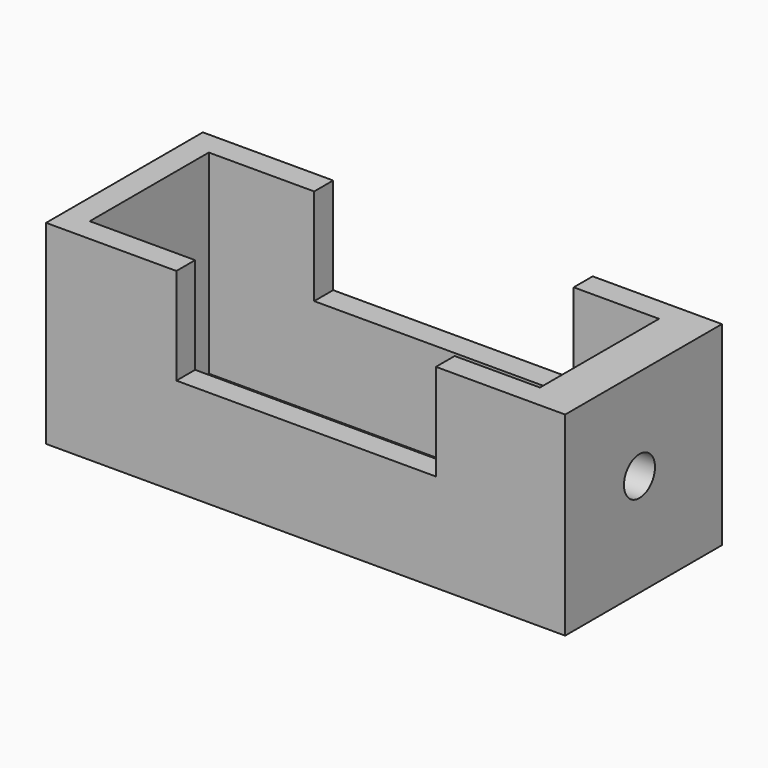
from build123d import *

# Parameters (mm, degrees)
F0_W     = 203.2
F0_H     = 76.2
F1_DEPTH = 76.708
F2_W     = 101.6
F2_H     = 38.1
F3_DEPTH = 116.332
F4_R     = 7.5946
F5_DEPTH = 234.95
F6_W     = 176.251258
F6_H     = 58.252844
F7_DEPTH = 93.472


with BuildPart() as f1:
    # F0 (on Front) → F1 (new body)
    with BuildSketch(Plane.XZ):
        with Locations((48.921661, 38.1)):
            Rectangle(F0_W, F0_H)
    extrude(amount=F1_DEPTH)

    # F2 (on Front) → F3 (cut)
    with BuildSketch(Plane.XZ):
        with Locations((49.131309, 57.448106)):
            Rectangle(F2_W, F2_H)
    extrude(amount=F3_DEPTH, mode=Mode.SUBTRACT)

    # F4 (on face) → F5 (cut, symmetric)
    with BuildSketch(Plane(origin=(-52.678339, 0, 0), x_dir=(0, -1, 0), z_dir=(-1, 0, 0))):
        with Locations((40.342383, 40.232584)):
            Circle(F4_R)
    extrude(amount=F5_DEPTH, both=True, mode=Mode.SUBTRACT)

    # F6 (on face) → F7 (cut)
    with BuildSketch(Plane(origin=(0, 0, 0), x_dir=(1, 0, 0), z_dir=(0, 0, -1))):
        with Locations((45.208322, 38.419208)):
            Rectangle(F6_W, F6_H)
    extrude(amount=-F7_DEPTH, mode=Mode.SUBTRACT)


solid = f1.part
